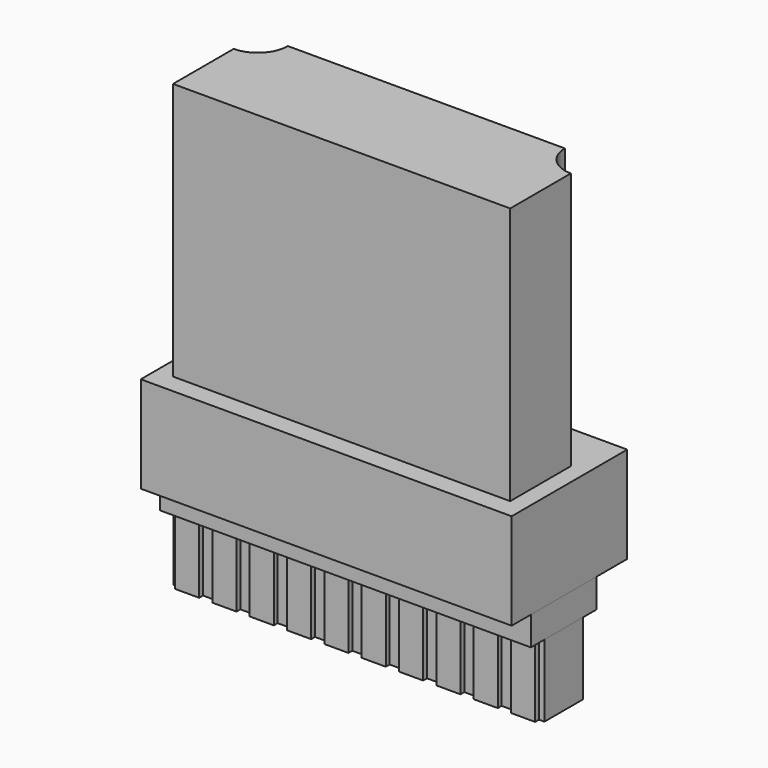
from build123d import *

# Parameters (mm, degrees)
F1_DEPTH  = 10.7
F2_W      = 15.4
F2_H      = 6
F3_DEPTH  = 4
F4_W      = 15.4
F4_H      = 3.4
F5_DEPTH  = 1.2
F6_W      = 15.4
F6_H      = 2
F7_DEPTH  = 3
F8_W      = 1
F8_H      = 3
F9_DEPTH  = 0.2
F10_W     = 1
F10_H     = 3
F11_DEPTH = 0.2


with BuildPart() as f1:
    # F0 (on Top) → F1 (new body)
    with BuildSketch(Plane.XY):
        with BuildLine():
            Line((0, 3.15), (0, 0))
            Line((0, 0), (14, 0))
            Line((14, 0), (14, 3.15))
            ThreePointArc((14, 3.15), (13.1161165235, 3.5161165235), (12.75, 4.4))
            Line((12.75, 4.4), (1.25, 4.4))
            ThreePointArc((1.25, 4.4), (0.8838834765, 3.5161165235), (0, 3.15))
        make_face()
    extrude(amount=F1_DEPTH)


with BuildPart() as f3:
    # F2 (on face) → F3 (new body)
    with BuildSketch(Plane(origin=(0, 0, 0), x_dir=(1, 0, 0), z_dir=(0, 0, -1))):
        with Locations((7, -2.2)):
            Rectangle(F2_W, F2_H)
        with BuildLine():
            Line((0, -3.15), (0, 0))
            Line((0, 0), (14, 0))
            Line((14, 0), (14, -3.15))
            ThreePointArc((14, -3.15), (13.1161165235, -3.5161165235), (12.75, -4.4))
            Line((12.75, -4.4), (1.25, -4.4))
            ThreePointArc((1.25, -4.4), (0.8838834765, -3.5161165235), (0, -3.15))
        make_face(mode=Mode.SUBTRACT)
        with BuildLine():
            Line((14, 0), (0, 0))
            Line((0, 0), (0, -3.15))
            ThreePointArc((0, -3.15), (0.8838834765, -3.5161165235), (1.25, -4.4))
            Line((1.25, -4.4), (12.75, -4.4))
            ThreePointArc((12.75, -4.4), (13.1161165235, -3.5161165235), (14, -3.15))
            Line((14, -3.15), (14, 0))
        make_face()
    extrude(amount=F3_DEPTH)


with BuildPart() as f5:
    # F4 (on face) → F5 (new body)
    with BuildSketch(Plane(origin=(0, 0, -4), x_dir=(1, 0, 0), z_dir=(0, 0, -1))):
        with Locations((7, -1.9)):
            Rectangle(F4_W, F4_H)
    extrude(amount=F5_DEPTH)


with BuildPart() as f7:
    # F6 (on face) → F7 (new body)
    with BuildSketch(Plane(origin=(0, 0, -5.2), x_dir=(1, 0, 0), z_dir=(0, 0, -1))):
        with Locations((7, -1.9)):
            Rectangle(F6_W, F6_H)
    extrude(amount=F7_DEPTH)


with BuildPart() as f9:
    # F8 (on face) → F9 (new body)
    with BuildSketch(Plane.XZ.offset(-0.9)):
        with Locations((0.025, -6.7)):
            Rectangle(F8_W, F8_H)
    extrude(amount=F9_DEPTH)


with BuildPart() as f9b:
    # F8 (on face) → F9, piece 2 (new body)
    with BuildSketch(Plane.XZ.offset(-0.9)):
        with Locations((1.575, -6.7)):
            Rectangle(F8_W, F8_H)
    extrude(amount=F9_DEPTH)


with BuildPart() as f9c:
    # F8 (on face) → F9, piece 3 (new body)
    with BuildSketch(Plane.XZ.offset(-0.9)):
        with Locations((3.125, -6.7)):
            Rectangle(F8_W, F8_H)
    extrude(amount=F9_DEPTH)


with BuildPart() as f9d:
    # F8 (on face) → F9, piece 4 (new body)
    with BuildSketch(Plane.XZ.offset(-0.9)):
        with Locations((4.675, -6.7)):
            Rectangle(F8_W, F8_H)
    extrude(amount=F9_DEPTH)


with BuildPart() as f9e:
    # F8 (on face) → F9, piece 5 (new body)
    with BuildSketch(Plane.XZ.offset(-0.9)):
        with Locations((6.225, -6.7)):
            Rectangle(F8_W, F8_H)
    extrude(amount=F9_DEPTH)


with BuildPart() as f9f:
    # F8 (on face) → F9, piece 6 (new body)
    with BuildSketch(Plane.XZ.offset(-0.9)):
        with Locations((7.775, -6.7)):
            Rectangle(F8_W, F8_H)
    extrude(amount=F9_DEPTH)


with BuildPart() as f9g:
    # F8 (on face) → F9, piece 7 (new body)
    with BuildSketch(Plane.XZ.offset(-0.9)):
        with Locations((9.325, -6.7)):
            Rectangle(F8_W, F8_H)
    extrude(amount=F9_DEPTH)


with BuildPart() as f9h:
    # F8 (on face) → F9, piece 8 (new body)
    with BuildSketch(Plane.XZ.offset(-0.9)):
        with Locations((10.875, -6.7)):
            Rectangle(F8_W, F8_H)
    extrude(amount=F9_DEPTH)


with BuildPart() as f9i:
    # F8 (on face) → F9, piece 9 (new body)
    with BuildSketch(Plane.XZ.offset(-0.9)):
        with Locations((12.425, -6.7)):
            Rectangle(F8_W, F8_H)
    extrude(amount=F9_DEPTH)


with BuildPart() as f9j:
    # F8 (on face) → F9, piece 10 (new body)
    with BuildSketch(Plane.XZ.offset(-0.9)):
        with Locations((13.975, -6.7)):
            Rectangle(F8_W, F8_H)
    extrude(amount=F9_DEPTH)


with BuildPart() as f11:
    # F10 (on face) → F11 (new body)
    with BuildSketch(Plane(origin=(0, 2.9, 0), x_dir=(-1, 0, 0), z_dir=(0, 1, 0))):
        with Locations((-13.2, -6.7)):
            Rectangle(F10_W, F10_H)
    extrude(amount=F11_DEPTH)


with BuildPart() as f11b:
    # F10 (on face) → F11, piece 2 (new body)
    with BuildSketch(Plane(origin=(0, 2.9, 0), x_dir=(-1, 0, 0), z_dir=(0, 1, 0))):
        with Locations((-11.65, -6.7)):
            Rectangle(F10_W, F10_H)
    extrude(amount=F11_DEPTH)


with BuildPart() as f11c:
    # F10 (on face) → F11, piece 3 (new body)
    with BuildSketch(Plane(origin=(0, 2.9, 0), x_dir=(-1, 0, 0), z_dir=(0, 1, 0))):
        with Locations((-10.1, -6.7)):
            Rectangle(F10_W, F10_H)
    extrude(amount=F11_DEPTH)


with BuildPart() as f11d:
    # F10 (on face) → F11, piece 4 (new body)
    with BuildSketch(Plane(origin=(0, 2.9, 0), x_dir=(-1, 0, 0), z_dir=(0, 1, 0))):
        with Locations((-8.55, -6.7)):
            Rectangle(F10_W, F10_H)
    extrude(amount=F11_DEPTH)


with BuildPart() as f11e:
    # F10 (on face) → F11, piece 5 (new body)
    with BuildSketch(Plane(origin=(0, 2.9, 0), x_dir=(-1, 0, 0), z_dir=(0, 1, 0))):
        with Locations((-7, -6.7)):
            Rectangle(F10_W, F10_H)
    extrude(amount=F11_DEPTH)


with BuildPart() as f11f:
    # F10 (on face) → F11, piece 6 (new body)
    with BuildSketch(Plane(origin=(0, 2.9, 0), x_dir=(-1, 0, 0), z_dir=(0, 1, 0))):
        with Locations((-5.45, -6.7)):
            Rectangle(F10_W, F10_H)
    extrude(amount=F11_DEPTH)


with BuildPart() as f11g:
    # F10 (on face) → F11, piece 7 (new body)
    with BuildSketch(Plane(origin=(0, 2.9, 0), x_dir=(-1, 0, 0), z_dir=(0, 1, 0))):
        with Locations((-3.9, -6.7)):
            Rectangle(F10_W, F10_H)
    extrude(amount=F11_DEPTH)


with BuildPart() as f11h:
    # F10 (on face) → F11, piece 8 (new body)
    with BuildSketch(Plane(origin=(0, 2.9, 0), x_dir=(-1, 0, 0), z_dir=(0, 1, 0))):
        with Locations((-2.35, -6.7)):
            Rectangle(F10_W, F10_H)
    extrude(amount=F11_DEPTH)


with BuildPart() as f11i:
    # F10 (on face) → F11, piece 9 (new body)
    with BuildSketch(Plane(origin=(0, 2.9, 0), x_dir=(-1, 0, 0), z_dir=(0, 1, 0))):
        with Locations((-0.8, -6.7)):
            Rectangle(F10_W, F10_H)
    extrude(amount=F11_DEPTH)


solid = Compound([f1.part, f3.part, f5.part, f7.part, f9.part, f9b.part, f9c.part, f9d.part, f9e.part, f9f.part, f9g.part, f9h.part, f9i.part, f9j.part, f11.part, f11b.part, f11c.part, f11d.part, f11e.part, f11f.part, f11g.part, f11h.part, f11i.part])
